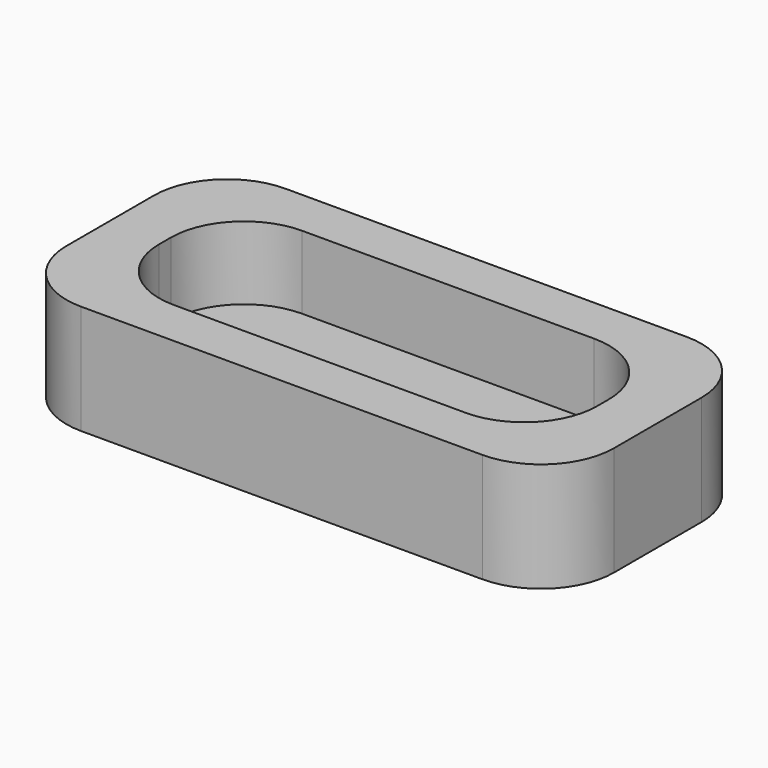
from build123d import *

# Parameters (mm, degrees)
F1_DEPTH = 3
F3_DEPTH = 2
F4_DEPTH = 2


with BuildPart() as f1:
    # F0 (on Top) → F1 (new body)
    with BuildSketch(Plane.XY):
        with BuildLine():
            ThreePointArc((7.5, 1.5), (6.914214, 2.914214), (5.5, 3.5))
            Line((5.5, 3.5), (-5.5, 3.5))
            ThreePointArc((-5.5, 3.5), (-6.914214, 2.914214), (-7.5, 1.5))
            Line((-7.5, 1.5), (-7.5, -1.5))
            ThreePointArc((-7.5, -1.5), (-6.914214, -2.914214), (-5.5, -3.5))
            Line((-5.5, -3.5), (5.5, -3.5))
            ThreePointArc((5.5, -3.5), (6.914214, -2.914214), (7.5, -1.5))
            Line((7.5, -1.5), (7.5, 1.5))
        make_face()
    extrude(amount=F1_DEPTH)

    # F2 (on face) → F3 (join)
    with BuildSketch(Plane.XY.offset(3)):
        with BuildLine():
            ThreePointArc((6, 0.2), (5.414214, 1.614214), (4, 2.2))
            Line((4, 2.2), (-4, 2.2))
            ThreePointArc((-4, 2.2), (-5.414214, 1.614214), (-6, 0.2))
            Line((-6, 0.2), (-6, -0.2))
            ThreePointArc((-6, -0.2), (-5.414214, -1.614214), (-4, -2.2))
            Line((-4, -2.2), (4, -2.2))
            ThreePointArc((4, -2.2), (5.414214, -1.614214), (6, -0.2))
            Line((6, -0.2), (6, 0.2))
        make_face()
    extrude(amount=-F3_DEPTH)

    # F2 (on face) → F4 (cut)
    with BuildSketch(Plane.XY.offset(3)):
        with BuildLine():
            ThreePointArc((6, 0.2), (5.414214, 1.614214), (4, 2.2))
            Line((4, 2.2), (-4, 2.2))
            ThreePointArc((-4, 2.2), (-5.414214, 1.614214), (-6, 0.2))
            Line((-6, 0.2), (-6, -0.2))
            ThreePointArc((-6, -0.2), (-5.414214, -1.614214), (-4, -2.2))
            Line((-4, -2.2), (4, -2.2))
            ThreePointArc((4, -2.2), (5.414214, -1.614214), (6, -0.2))
            Line((6, -0.2), (6, 0.2))
        make_face()
    extrude(amount=-F4_DEPTH, mode=Mode.SUBTRACT)


solid = f1.part
